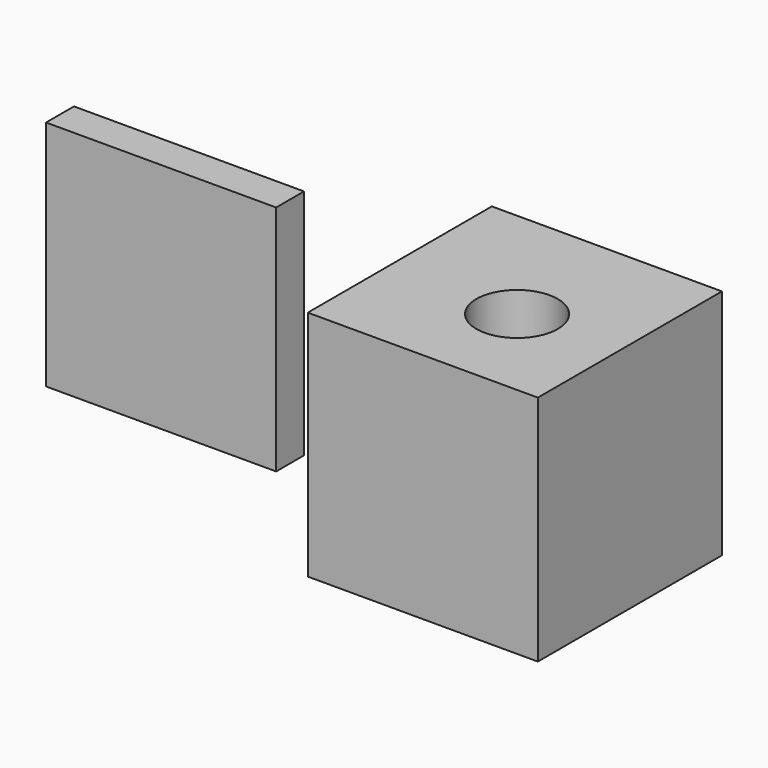
from build123d import *

# Parameters (mm, degrees)
F0_W     = 25.146
F0_H     = 25.146
F1_DEPTH = 25.4
F2_R     = 4.445
F3_DEPTH = 25.4
F4_W     = 25.146
F4_H     = 3.81
F5_DEPTH = 25.4


with BuildPart() as f1:
    # F0 (on Top) → F1 (new body)
    with BuildSketch(Plane.XY):
        with Locations((1.762159, -1.375717)):
            Rectangle(F0_W, F0_H)
    extrude(amount=F1_DEPTH)

    # F2 (on face) → F3 (cut)
    with BuildSketch(Plane.XY.offset(25.4)):
        with Locations((3.29368, -2.984911)):
            Circle(F2_R)
    extrude(amount=-F3_DEPTH, mode=Mode.SUBTRACT)


with BuildPart() as f5:
    # F4 (on Top) → F5 (new body)
    with BuildSketch(Plane.XY):
        with Locations((-37.628851, 1.442708)):
            Rectangle(F4_W, F4_H)
    extrude(amount=F5_DEPTH)


solid = Compound([f1.part, f5.part])
